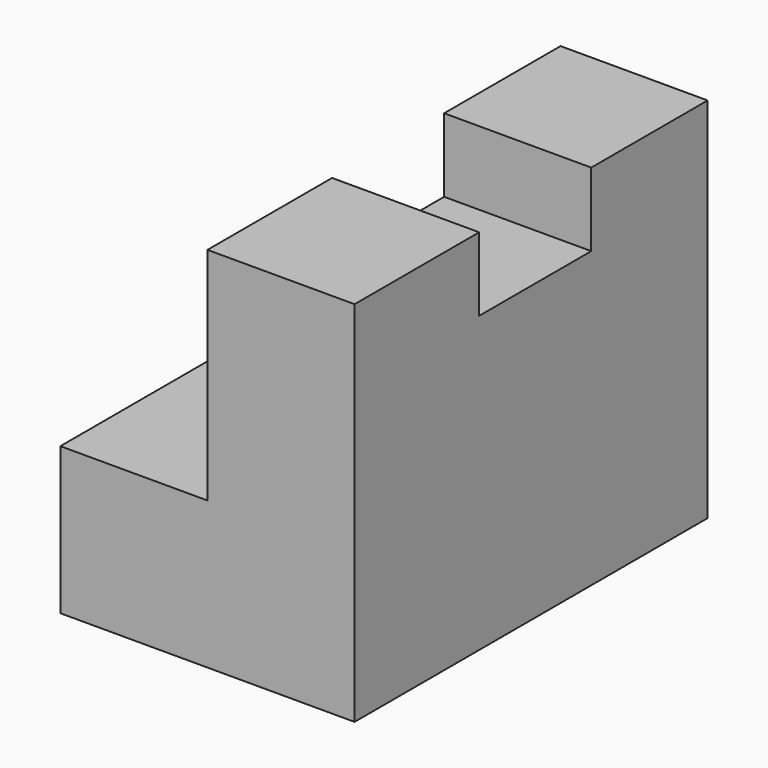
from build123d import *

# Parameters (mm, degrees)
F1_DEPTH = 38.1
F2_W     = 12.7
F2_H     = 12.094536
F3_DEPTH = 6.35


with BuildPart() as f1:
    # F0 (on Front) → F1 (new body)
    with BuildSketch(Plane.XZ):
        Polygon((0, 12.7), (0, 0), (25.4, 0), (25.4, 31.75), (12.7, 31.75), (12.7, 12.7), align=None)
    extrude(amount=F1_DEPTH)

    # F2 (on face) → F3 (cut)
    with BuildSketch(Plane.XY.offset(31.75)):
        with Locations((19.05, -18.606977)):
            Rectangle(F2_W, F2_H)
    extrude(amount=-F3_DEPTH, mode=Mode.SUBTRACT)


solid = f1.part
